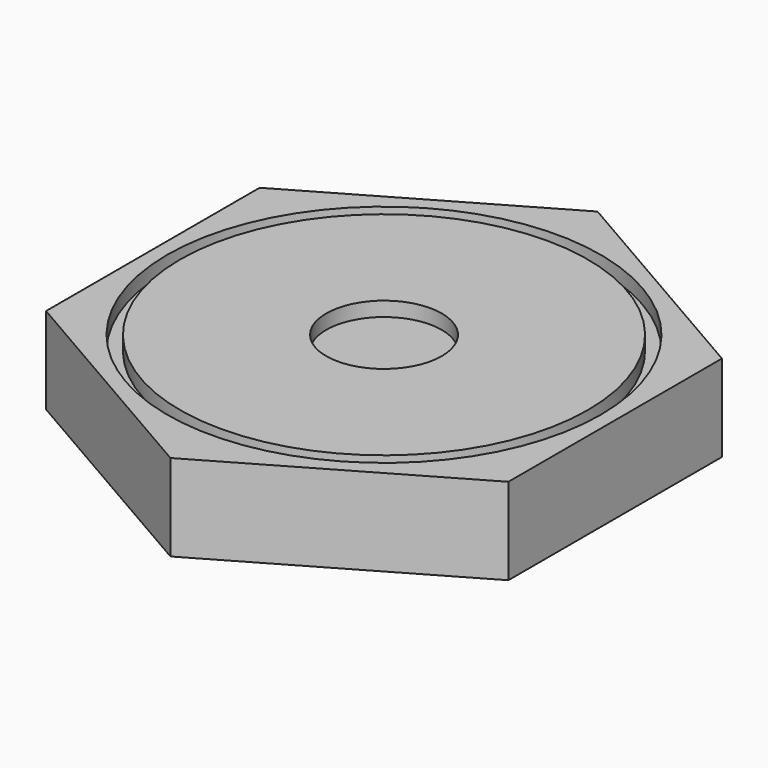
from build123d import *

# Parameters (mm, degrees)
F1_DEPTH = 50
F3_R     = 150
F4_DEPTH = 10
F3_R_2   = 141.1224
F3_R_3   = 40
F5_DEPTH = 10


with BuildPart() as f1:
    # F0 (on Top) → F1 (new body)
    with BuildSketch(Plane.XY):
        Polygon((160, -92.376043), (160, 92.376043), (0, 184.752086), (-160, 92.376043), (-160, -92.376043), (0, -184.752086), align=None)
    extrude(amount=F1_DEPTH)

    # F3 (on face) → F4 (join)
    with BuildSketch(Plane.XY.offset(50)):
        Polygon((-160, -92.376043), (0, -184.752086), (160, -92.376043), (160, 92.376043), (0, 184.752086), (-160, 92.376043), align=None)
        Circle(F3_R, mode=Mode.SUBTRACT)
    extrude(amount=F4_DEPTH)

    # F3 (on face) → F5 (join)
    with BuildSketch(Plane.XY.offset(50)):
        Circle(F3_R_2)
        Circle(F3_R_3, mode=Mode.SUBTRACT)
    extrude(amount=F5_DEPTH)


solid = f1.part
